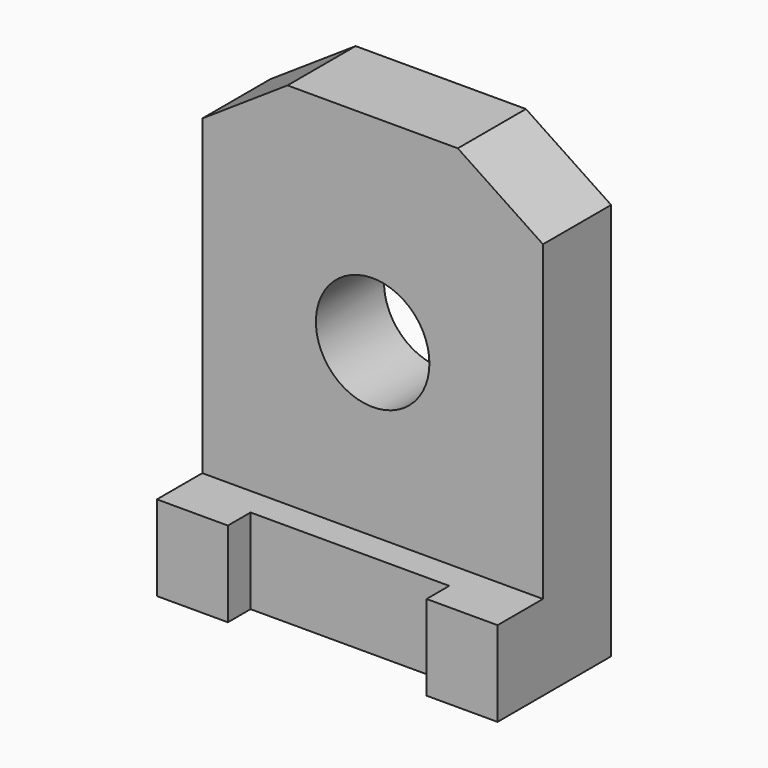
from build123d import *

# Parameters (mm, degrees)
F0_R     = 10
F1_DEPTH = 25
F3_DEPTH = 65
F4_W     = 35
F4_H     = 5
F5_DEPTH = 15


with BuildPart() as f1:
    # F0 (on Front) → F1 (new body)
    with BuildSketch(Plane.XZ):
        Polygon((-30, 0), (30, 0), (30, 70), (15, 80), (-15, 80), (-30, 70), align=None)
        with Locations((0, 45)):
            Circle(F0_R, mode=Mode.SUBTRACT)
    extrude(amount=F1_DEPTH)

    # F2 (on face) → F3 (cut)
    with BuildSketch(Plane.XY.offset(80)):
        Polygon((-30, -25), (-15, -25), (30, -25), (30, -15), (-30, -15), align=None)
    extrude(amount=-F3_DEPTH, mode=Mode.SUBTRACT)

    # F4 (on Top) → F5 (cut)
    with BuildSketch(Plane.XY):
        with Locations((0, -22.5)):
            Rectangle(F4_W, F4_H)
    extrude(amount=F5_DEPTH, mode=Mode.SUBTRACT)


solid = f1.part
